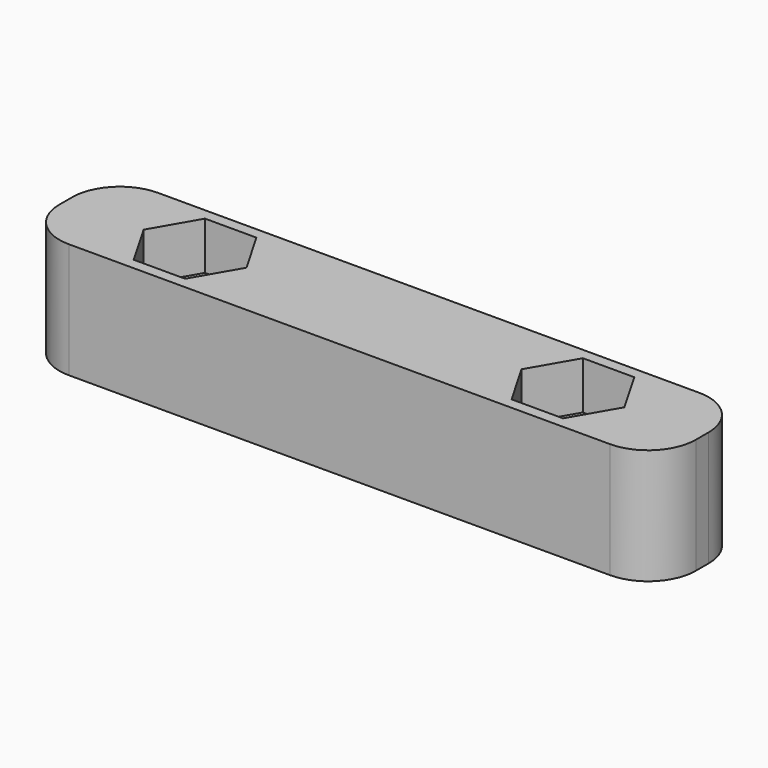
from build123d import *

# Parameters (mm, degrees)
SKETCH_W     = 40
SKETCH_H     = 7
SKETCH_R     = 1.6
PAD_DEPTH    = 7.25
POCKET_DEPTH = 3
FILLET_R     = 3


with BuildPart() as part:
    # Sketch → Pad (new body)
    with BuildSketch(Plane.XY):
        Rectangle(SKETCH_W, SKETCH_H)
        with Locations((-11.875, 0)):
            Circle(SKETCH_R, mode=Mode.SUBTRACT)
        with Locations((11.875, 0)):
            Circle(SKETCH_R, mode=Mode.SUBTRACT)
    extrude(amount=PAD_DEPTH)

    # Sketch001 (on Face8 of Pad) → Pocket (cut)
    with BuildSketch(Plane.XY.offset(7.25)):
        Polygon((-8.641838, 0), (-10.258419, 2.8), (-13.491581, 2.8), (-15.108162, 0), (-13.491581, -2.8), (-10.258419, -2.8), align=None)
        Polygon((8.641838, 0), (10.258419, -2.8), (13.491581, -2.8), (15.108162, 0), (13.491581, 2.8), (10.258419, 2.8), align=None)
    extrude(amount=-POCKET_DEPTH, mode=Mode.SUBTRACT)

    # Fillet
    fillet_edges = [part.edges().sort_by_distance(p)[0] for p in [
        (20, -3.5, 3.625),
        (20, 3.5, 3.625),
        (-20, 3.5, 3.625),
        (-20, -3.5, 3.625),
    ]]
    fillet(fillet_edges, radius=FILLET_R)


solid = part.part
